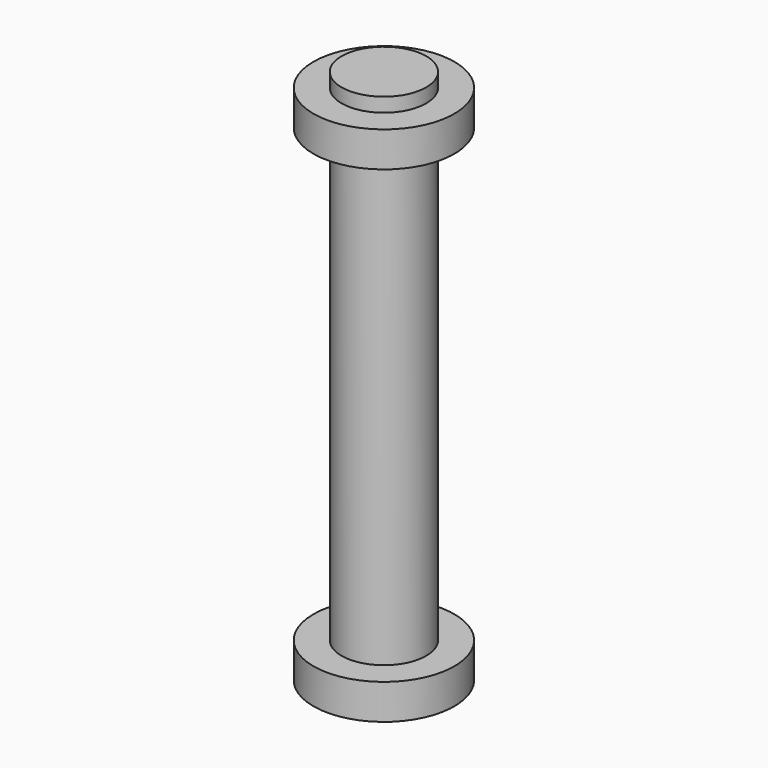
from build123d import *

# Parameters (mm, degrees)
F0_W   = 3
F0_H   = 32
F0_H_2 = 1


with BuildPart() as f1:
    # F0 (on Front) → F1 (revolve)
    with BuildSketch(Plane.XZ):
        with Locations((-1.5, 0)):
            Rectangle(F0_W, F0_H)
        Polygon((-5, 16), (-3, 16), (0, 16), (0, 18.5), (-3, 18.5), (-5, 18.5), align=None)
        Polygon((0, -16), (-3, -16), (-5, -16), (-5, -18.5), (0, -18.5), align=None)
        with Locations((-1.5, 19)):
            Rectangle(F0_W, F0_H_2)
    revolve(axis=Axis((0, 0, 0.5), (0, 0, -1)))


solid = f1.part
